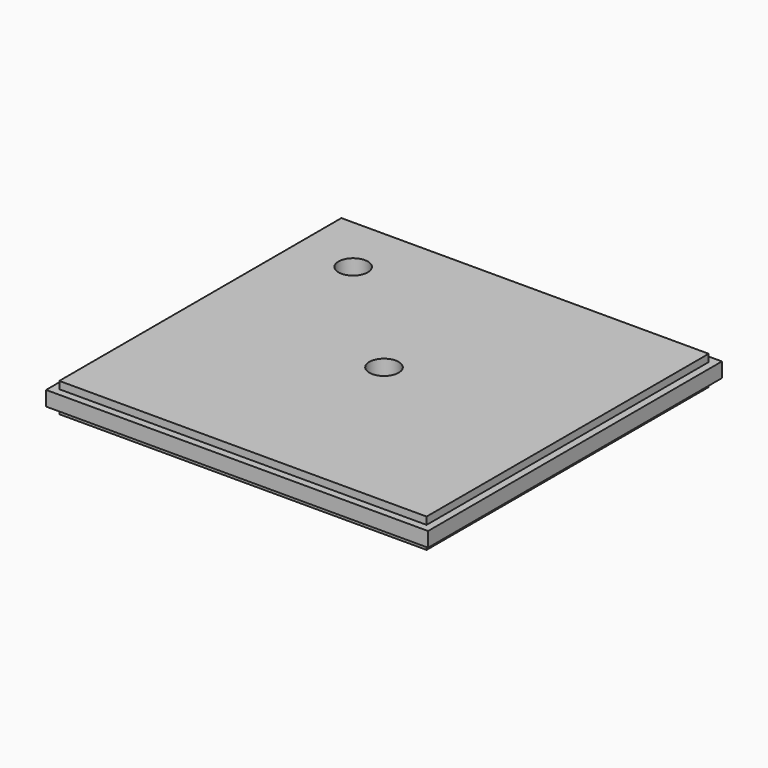
from build123d import *

# Parameters (mm, degrees)
F0_W      = 317.5
F0_H      = 304.8
F1_DEPTH  = 25.4
F2_W      = 317.5
F2_H      = 12.7
F3_DEPTH  = 6.35
F4_W      = 317.5
F4_H      = 12.7
F5_DEPTH  = 6.35
F8_DEPTH  = 6.35
F9_DEPTH  = 6.35
F10_R     = 12.7
F11_DEPTH = 25.4
F12_R     = 12.7
F13_DEPTH = 25.4


with BuildPart() as f1:
    # F0 (on Top) → F1 (new body)
    with BuildSketch(Plane.XY):
        Rectangle(F0_W, F0_H)
    extrude(amount=F1_DEPTH)

    # F2 (on face) → F3 (join)
    with BuildSketch(Plane.XZ.offset(152.4)):
        with Locations((0, 12.7)):
            Rectangle(F2_W, F2_H)
    extrude(amount=F3_DEPTH)

    # F4 (on face) → F5 (join)
    with BuildSketch(Plane(origin=(0, 152.4, 0), x_dir=(-1, 0, 0), z_dir=(0, 1, 0))):
        with Locations((0, 12.7)):
            Rectangle(F4_W, F4_H)
    extrude(amount=F5_DEPTH)

    # F7 (on face) → F8 (join)
    with BuildSketch(Plane(origin=(-158.75, 0, 0), x_dir=(0, -1, 0), z_dir=(-1, 0, 0))):
        Polygon((-152.4, 19.05), (-158.75, 19.05), (-158.75, 6.35), (-152.4, 6.35), (152.4, 6.35), (158.75, 6.35), (158.75, 19.05), (152.4, 19.05), align=None)
    extrude(amount=F8_DEPTH)

    # F6 (on face) → F9 (join)
    with BuildSketch(Plane.YZ.offset(158.75)):
        Polygon((-152.4, 19.05), (-158.75, 19.05), (-158.75, 6.35), (-152.4, 6.35), (152.4, 6.35), (158.75, 6.35), (158.75, 19.05), (152.4, 19.05), align=None)
    extrude(amount=F9_DEPTH)

    # F10 (on face) → F11 (cut)
    with BuildSketch(Plane.XY.offset(25.4)):
        with Locations((-107.95, 101.6)):
            Circle(F10_R)
    extrude(amount=-F11_DEPTH, mode=Mode.SUBTRACT)

    # F12 (on face) → F13 (cut)
    with BuildSketch(Plane.XY.offset(25.4)):
        Circle(F12_R)
    extrude(amount=-F13_DEPTH, mode=Mode.SUBTRACT)


solid = f1.part
